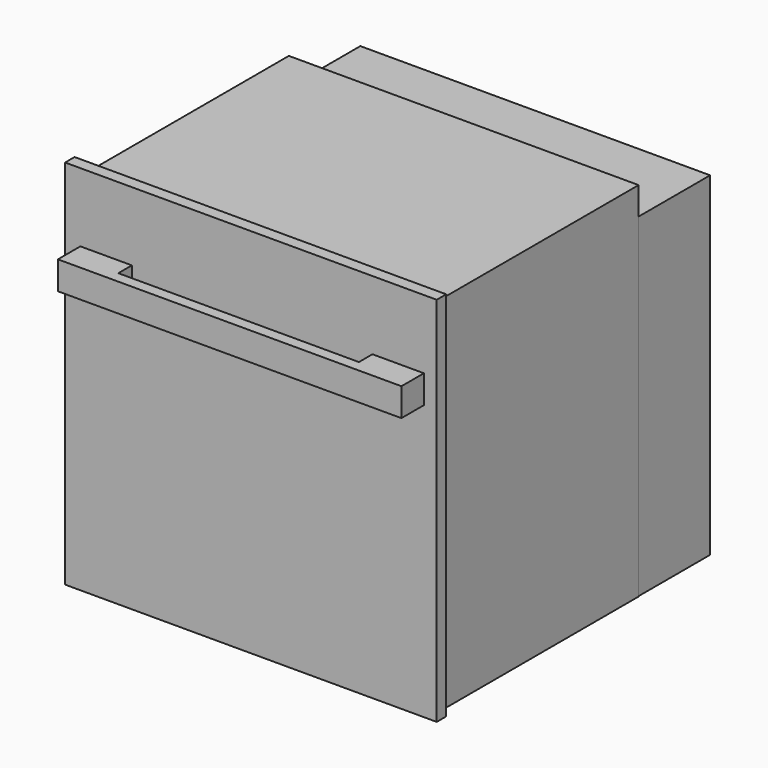
from build123d import *

# Parameters (mm, degrees)
F0_W      = 56
F0_H      = 58
F1_DEPTH  = 40.5
F2_W      = 56
F2_H      = 53.5
F3_DEPTH  = 14.3
F6_W      = 59.5
F6_H      = 59.5
F7_DEPTH  = 1.9
F10_DEPTH = 4.5
F11_ANGLE = 90


with BuildPart() as f1:
    # F0 (on Front) → F1 (new body)
    with BuildSketch(Plane.XZ):
        with Locations((0.8537461311, -0.8102237284)):
            Rectangle(F0_W, F0_H)
    extrude(amount=F1_DEPTH)


with BuildPart() as f3:
    # F2 (on Front) → F3 (new body)
    with BuildSketch(Plane.XZ):
        with Locations((-1.537446931, -0.1907909364)):
            Rectangle(F2_W, F2_H)
    extrude(amount=F3_DEPTH)


with BuildPart() as f3_1:
    # F4: moved
    add(f3.part.moved(Location((0, 16.5, 0))))


with BuildPart() as f3_2:
    # F5: moved
    add(f3_1.part.moved(Location((2.4, -2.2, -2.8))))


with BuildPart() as f7:
    # F6 (on Front) → F7 (new body)
    with BuildSketch(Plane.XZ):
        with Locations((-0.8962538689, 0.099188894)):
            Rectangle(F6_W, F6_H)
    extrude(amount=F7_DEPTH)


with BuildPart() as f7_1:
    # F8: moved
    add(f7.part.moved(Location((1.6, -40.5, -0.07))))


with BuildPart() as f10:
    # F9 (on Front) → F10 (new body)
    with BuildSketch(Plane.XZ):
        Polygon((-31.7831265189, 11.4217299074), (-40.0213970992, 11.4217299074), (-40.0213970992, 6.9217299074), (14.9786029008, 6.9217299074), (14.9786029008, 11.4217299074), (6.7403323204, 11.4217299074), (6.7403323204, 8.7117480863), (-31.7831265189, 8.7117480863), align=None)
    extrude(amount=F10_DEPTH)


with BuildPart() as f10_1:
    # F11: moved
    add(f10.part.rotate(Axis((10.8594676106, -4.5, 11.4217299074), (-1, 0, 0)), F11_ANGLE))


with BuildPart() as f10_2:
    # F12: moved
    add(f10_1.part.moved(Location((13.5, -38, 7.4))))


solid = Compound([f1.part, f3_2.part, f7_1.part, f10_2.part])
